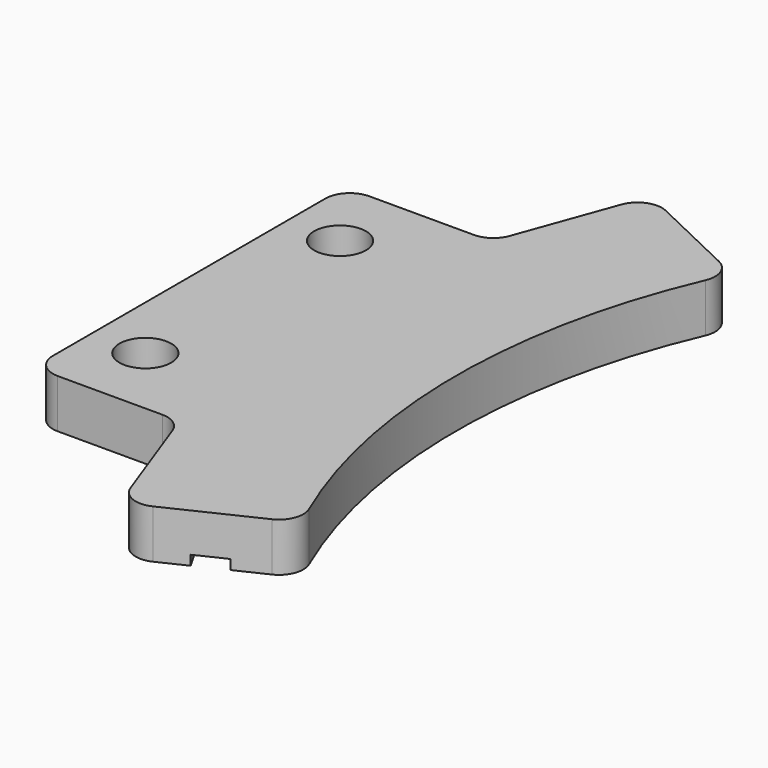
from build123d import *

# Parameters (mm, degrees)
F1_DEPTH = 6.35
F3_DEPTH = 1.27
F4_R     = 3.3782
F5_DEPTH = 6.351
F6_R     = 3.175


with BuildPart() as f1:
    # F0 (on Top) → F1 (new body)
    with BuildSketch(Plane.XY):
        with BuildLine():
            Line((19.05, 25.4), (0, 25.4))
            Line((0, 25.4), (0, -25.4))
            Line((0, -25.4), (19.05, -25.4))
            Line((19.05, -25.4), (25.565484, -43.301144))
            Line((25.565484, -43.301144), (42.757881, -35.096026))
            ThreePointArc((42.757881, -35.096026), (34.812296, 0), (42.757881, 35.096026))
            Line((42.757881, 35.096026), (25.565484, 43.301144))
            Line((25.565484, 43.301144), (19.05, 25.4))
        make_face()
    extrude(amount=F1_DEPTH)

    # F2 (on face) → F3 (cut)
    with BuildSketch(Plane(origin=(0, 0, 0), x_dir=(1, 0, 0), z_dir=(0, 0, -1))):
        with BuildLine():
            Line((36.051805, 38.296519), (32.272126, 40.100381))
            ThreePointArc((32.272126, 40.100381), (21.04302, 0), (32.272126, -40.100381))
            Line((32.272126, -40.100381), (36.051805, -38.296519))
            ThreePointArc((36.051805, -38.296519), (25.20862, 0), (36.051805, 38.296519))
        make_face()
    extrude(amount=-F3_DEPTH, mode=Mode.SUBTRACT)

    # F4 (on face) → F5 (cut, through all)
    with BuildSketch(Plane.XY.offset(6.35)):
        with Locations((6.985, 15.875)):
            Circle(F4_R)
        with Locations((6.985, -15.875)):
            Circle(F4_R)
    extrude(amount=-F5_DEPTH, mode=Mode.SUBTRACT)

    # F6
    f6_edges = [f1.edges().sort_by_distance(p)[0] for p in [
        (0, -25.4, 3.175),
        (19.05, -25.4, 3.175),
        (25.565484, -43.301144, 3.175),
        (42.757881, -35.096026, 3.175),
        (0, 25.4, 3.175),
        (42.757881, 35.096026, 3.175),
        (25.565484, 43.301144, 3.175),
        (19.05, 25.4, 3.175),
    ]]
    fillet(f6_edges, radius=F6_R)


solid = f1.part
